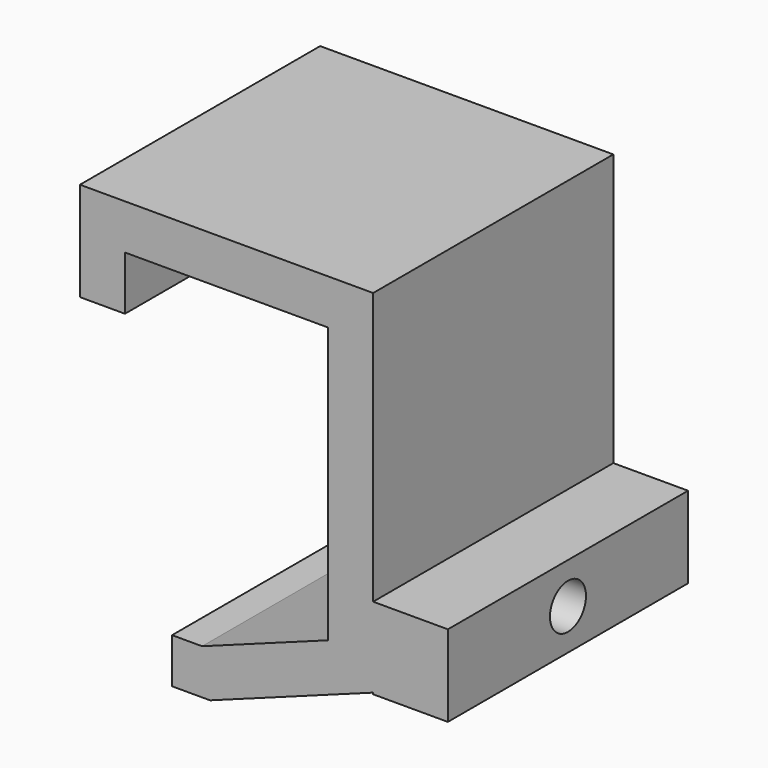
from build123d import *

# Parameters (mm, degrees)
F1_DEPTH = 50
F2_R     = 3.75
F3_DEPTH = 61.283435


with BuildPart() as f1:
    # F0 (on Front) → F1 (new body)
    with BuildSketch(Plane.XZ):
        Polygon((-41.335948, 36.869091), (-33.835948, 36.869091), (-33.835948, 45.854803), (0, 45.854803), (0, 0), (-20.993095, -7.70232), (-25.993095, -7.70232), (-25.993095, -15.20232), (-19.660654, -15.20232), (7.5, -5.237136), (7.5, 8.092798), (7.5, 53.354803), (-41.335948, 53.354803), align=None)
        Polygon((19.946488, 8.092798), (7.5, 8.092798), (7.5, -5.237136), (7.5, -5.485797), (19.946488, -5.485797), align=None)
    extrude(amount=F1_DEPTH)

    # F2 (on face) → F3 (cut, through all)
    with BuildSketch(Plane.YZ.offset(19.946488)):
        with Locations((-25, 1.303501)):
            Circle(F2_R)
    extrude(amount=-F3_DEPTH, mode=Mode.SUBTRACT)


solid = f1.part
